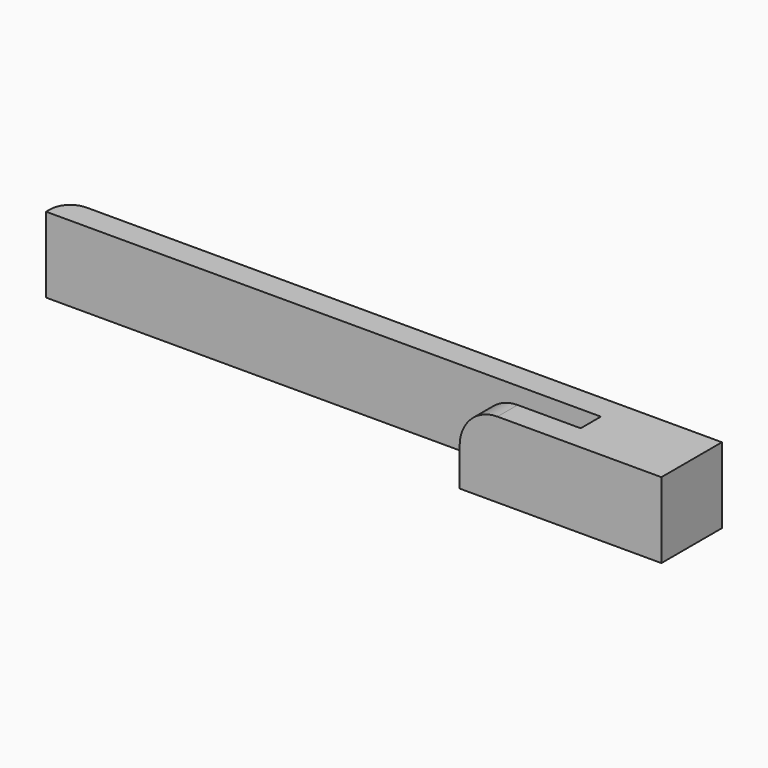
from build123d import *

# Parameters (mm, degrees)
F1_DEPTH = 6.35
F2_W     = 25.4
F2_H     = 6.35
F3_DEPTH = 9.525
F4_R     = 5.08


with BuildPart() as f1:
    # F0 (on Front) → F1 (new body)
    with BuildSketch(Plane.XZ):
        with BuildLine():
            Line((-9.525, -9.525), (9.525, -9.525))
            Line((9.525, -9.525), (15.875, -9.525))
            Line((15.875, -9.525), (41.275, -9.525))
            Line((41.275, -9.525), (41.275, 9.525))
            Line((41.275, 9.525), (15.875, 9.525))
            Line((15.875, 9.525), (9.525, 9.525))
            Line((9.525, 9.525), (0, 9.525))
            ThreePointArc((0, 9.525), (-6.735192, 6.735192), (-9.525, 0))
            Line((-9.525, 0), (-9.525, -9.525))
        make_face()
    extrude(amount=F1_DEPTH)

    # F2 (on Top) → F3 (join, symmetric)
    with BuildSketch(Plane.XY):
        with Locations((28.575, 3.175)):
            Rectangle(F2_W, F2_H)
        Polygon((-123.825, 6.35), (15.875, 6.35), (41.275, 6.35), (41.275, 12.7), (-123.825, 12.7), align=None)
    extrude(amount=F3_DEPTH, both=True)

    # F4
    f4_edges = [f1.edges().sort_by_distance(p)[0] for p in [
        (-123.825, 12.7, 0),
    ]]
    fillet(f4_edges, radius=F4_R)


solid = f1.part
